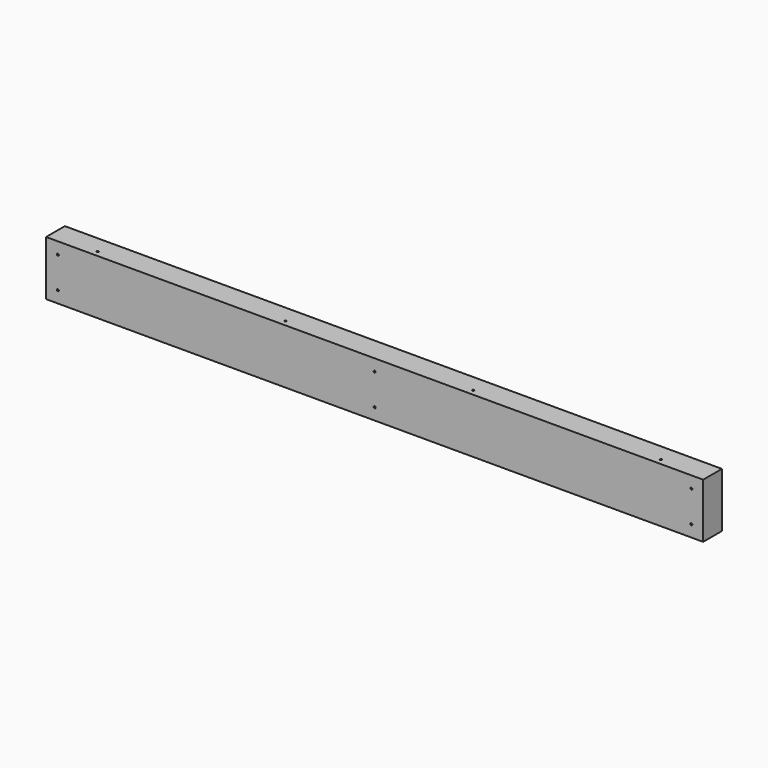
from build123d import *

# Parameters (mm, degrees)
F0_W     = 1066.8
F0_H     = 88.9
F1_DEPTH = 38.1
F2_R     = 1.5875
F3_DEPTH = 25.4
F4_R     = 1.5875
F5_DEPTH = 38.101


with BuildPart() as f1:
    # F0 (on Front) → F1 (new body)
    with BuildSketch(Plane.XZ):
        with Locations((533.4, -44.45)):
            Rectangle(F0_W, F0_H)
    extrude(amount=F1_DEPTH)

    # F2 (on Top) → F3 (cut)
    with BuildSketch(Plane.XY):
        with Locations((76.2, -28.575)):
            Circle(F2_R)
        with Locations((381, -28.575)):
            Circle(F2_R)
        with Locations((685.8, -28.575)):
            Circle(F2_R)
        with Locations((990.6, -28.575)):
            Circle(F2_R)
    extrude(amount=-F3_DEPTH, mode=Mode.SUBTRACT)

    # F4 (on Front) → F5 (cut, through all)
    with BuildSketch(Plane.XZ):
        with Locations((19.05, -19.05)):
            Circle(F4_R)
        with Locations((19.05, -69.85)):
            Circle(F4_R)
        with Locations((533.4, -19.05)):
            Circle(F4_R)
        with Locations((533.4, -69.85)):
            Circle(F4_R)
        with Locations((1047.75, -19.05)):
            Circle(F4_R)
        with Locations((1047.75, -69.85)):
            Circle(F4_R)
    extrude(amount=F5_DEPTH, mode=Mode.SUBTRACT)


solid = f1.part
